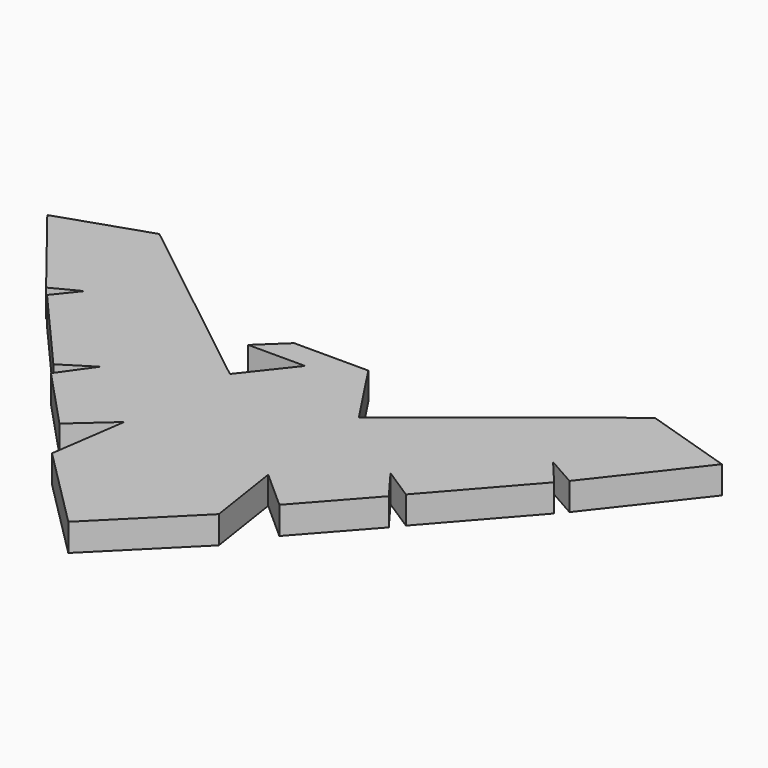
from build123d import *

# Parameters (mm, degrees)
F1_DEPTH = 7.62


with BuildPart() as f1:
    # F0 (on Top) → F1 (new body)
    with BuildSketch(Plane.XY):
        Polygon((6.422935, 38.444217), (-14.166216, 38.444217), (-21.403519, 31.57974), (-5.64046, 31.57974), (-15.981315, 18.460336), (-68.928845, 60.194146), (-93.437128, 51.977817), (-72.384275, 25.243798), (-64.864993, 29.134912), (-70.054352, 22.652369), (-48.670258, -1.8672), (-40.059935, 3.577625), (-46.473149, -5.455938), (-30.269377, -22.767998), (-19.772258, -13.421346), (-22.834825, -34.648044), (0, -57.534426), (23.207549, -34.379158), (19.991519, -13.223941), (30.720653, -22.767998), (46.702418, -4.801791), (40.234059, 3.875277), (49.077254, -1.836646), (70.586123, 22.652369), (64.496264, 29.908372), (72.788842, 25.243798), (93.672454, 51.977817), (68.720646, 59.903685), (18.547656, 20.028364), align=None)
    extrude(amount=F1_DEPTH)


solid = f1.part
